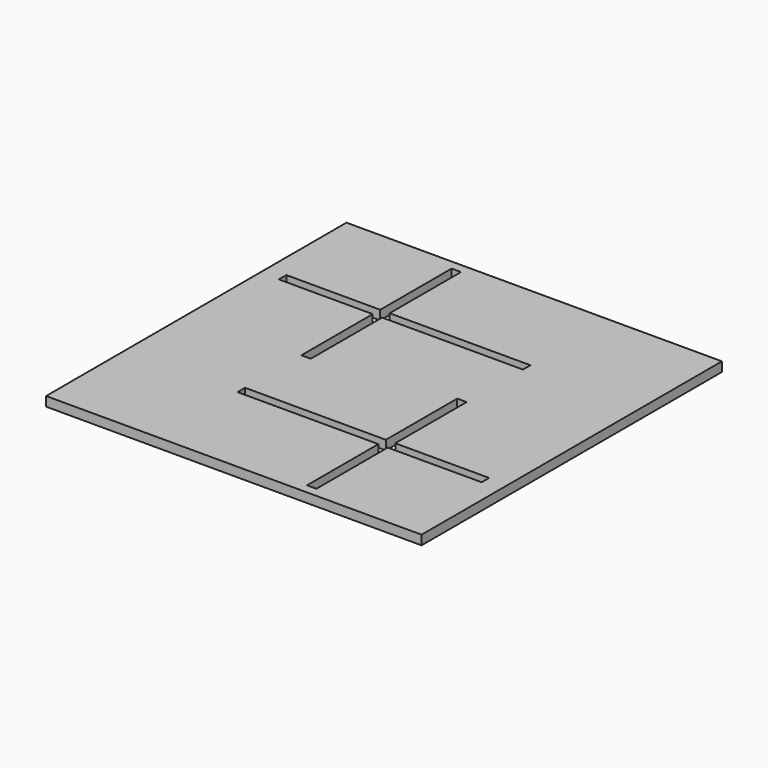
from build123d import *

# Parameters (mm, degrees)
F0_W      = 254
F0_H      = 254
F1_DEPTH  = 6.35
F4_DEPTH  = 25.4
F5_W      = 6.35
F5_H      = 127
F6_DEPTH  = 25.4
F7_W      = 165.1
F7_H      = 6.35
F8_DEPTH  = 25.4
F9_R      = 6.35
F10_DEPTH = 7.62
F11_R     = 3.81
F14_DEPTH = 7.62
F13_R     = 1.27
F15_DEPTH = 25.4
F2_W      = 6.35
F2_H      = 127
F16_DEPTH = 25.4


with BuildPart() as f1:
    # F0 (on Top) → F1 (new body)
    with BuildSketch(Plane.XY):
        Rectangle(F0_W, F0_H)
    extrude(amount=F1_DEPTH)

    # F3 (on face) → F4 (cut)
    with BuildSketch(Plane.XY.offset(6.35)):
        Polygon((114.3, -53.975), (-50.8, -53.975), (-50.8, -60.325), (114.3, -60.325), (114.3, -57.15), (114.3, -56.917642), align=None)
    extrude(amount=-F4_DEPTH, mode=Mode.SUBTRACT)

    # F5 (on face) → F6 (cut)
    with BuildSketch(Plane.XY.offset(6.35)):
        with Locations((47.625, -57.15)):
            Rectangle(F5_W, F5_H)
    extrude(amount=-F6_DEPTH, mode=Mode.SUBTRACT)

    # F7 (on face) → F8 (cut)
    with BuildSketch(Plane.XY.offset(6.35)):
        with Locations((-31.75, 57.15)):
            Rectangle(F7_W, F7_H)
    extrude(amount=-F8_DEPTH, mode=Mode.SUBTRACT)

    # F9 (on face) → F10 (join)
    with BuildSketch(Plane(origin=(0, 0, 0), x_dir=(1, 0, 0), z_dir=(0, 0, -1))):
        Circle(F9_R)
    extrude(amount=F10_DEPTH)

    # F11 (on face) → F14 (cut)
    with BuildSketch(Plane(origin=(0, 0, -7.62), x_dir=(1, 0, 0), z_dir=(0, 0, -1))):
        Circle(F11_R)
    extrude(amount=-F14_DEPTH, mode=Mode.SUBTRACT)

    # F13 (on offset) → F15 (cut)
    with BuildSketch(Plane.XZ.offset(-12.7)):
        with Locations((0, -2.54)):
            Circle(F13_R)
    extrude(amount=F15_DEPTH, mode=Mode.SUBTRACT)

    # F2 (on face) → F16 (cut)
    with BuildSketch(Plane.XY.offset(6.35)):
        with Locations((-47.625, 57.15)):
            Rectangle(F2_W, F2_H)
    extrude(amount=-F16_DEPTH, mode=Mode.SUBTRACT)


solid = f1.part
